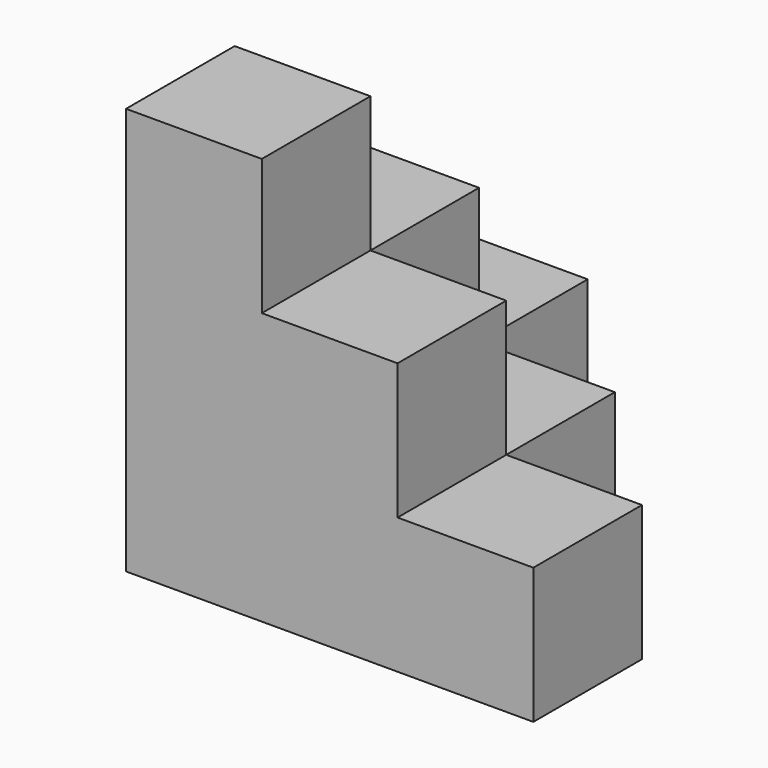
from build123d import *

# Parameters (mm, degrees)
BOX001_W     = 10
BOX001_H     = 10
BOX001_DEPTH = 20
BOX002_W     = 10
BOX002_H     = 10
BOX002_DEPTH = 20
BOX003_W     = 10
BOX003_H     = 10
BOX003_DEPTH = 10
BOX004_W     = 10
BOX004_H     = 10
BOX004_DEPTH = 10
BOX005_W     = 10
BOX005_H     = 10
BOX005_DEPTH = 10
BOX_W        = 10
BOX_H        = 10
BOX_DEPTH    = 30


with BuildPart() as cub001:
    # Box001 → Box001 (new body)
    with BuildSketch(Plane(origin=(10, 0, 0), x_dir=(1, 0, 0), z_dir=(0, 0, 1))):
        with Locations((5, 5)):
            Rectangle(BOX001_W, BOX001_H)
    extrude(amount=BOX001_DEPTH)


with BuildPart() as cub002:
    # Box002 → Box002 (new body)
    with BuildSketch(Plane(origin=(0, 10, 0), x_dir=(1, 0, 0), z_dir=(0, 0, 1))):
        with Locations((5, 5)):
            Rectangle(BOX002_W, BOX002_H)
    extrude(amount=BOX002_DEPTH)


with BuildPart() as cub003:
    # Box003 → Box003 (new body)
    with BuildSketch(Plane(origin=(20, 0, 0), x_dir=(1, 0, 0), z_dir=(0, 0, 1))):
        with Locations((5, 5)):
            Rectangle(BOX003_W, BOX003_H)
    extrude(amount=BOX003_DEPTH)


with BuildPart() as cub004:
    # Box004 → Box004 (new body)
    with BuildSketch(Plane(origin=(0, 20, 0), x_dir=(1, 0, 0), z_dir=(0, 0, 1))):
        with Locations((5, 5)):
            Rectangle(BOX004_W, BOX004_H)
    extrude(amount=BOX004_DEPTH)


with BuildPart() as cub005:
    # Box005 → Box005 (new body)
    with BuildSketch(Plane(origin=(10, 10, 0), x_dir=(1, 0, 0), z_dir=(0, 0, 1))):
        with Locations((5, 5)):
            Rectangle(BOX005_W, BOX005_H)
    extrude(amount=BOX005_DEPTH)


with BuildPart() as fusion:
    # Box → Box (new body)
    with BuildSketch(Plane.XY):
        with Locations((5, 5)):
            Rectangle(BOX_W, BOX_H)
    extrude(amount=BOX_DEPTH)

    # Fusion: union Cub001, Cub002, Cub003, Cub004, Cub005
    add(cub001.part)
    add(cub002.part)
    add(cub003.part)
    add(cub004.part)
    add(cub005.part)


solid = fusion.part
